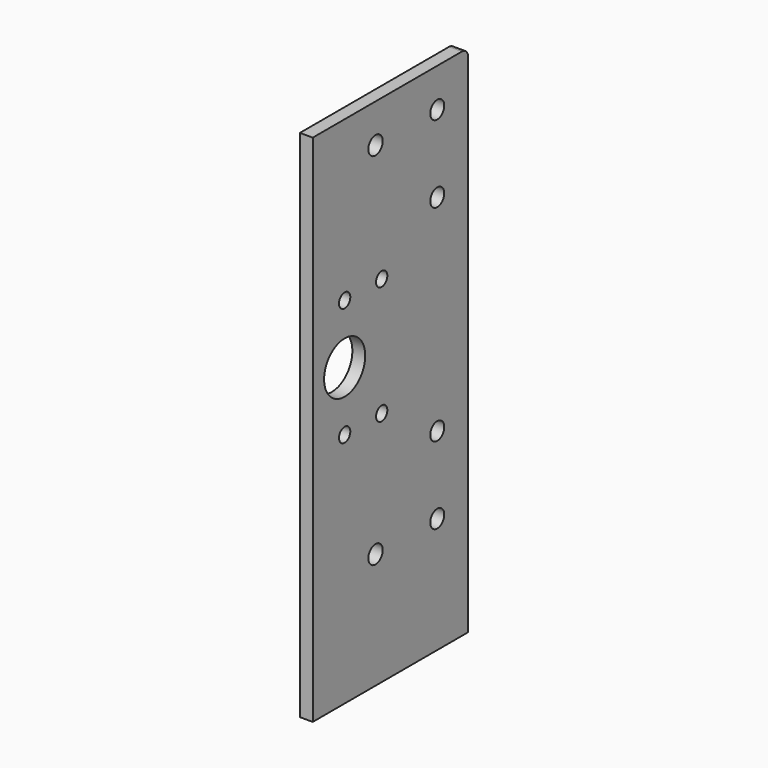
from build123d import *

# Parameters (mm, degrees)
F0_W     = 75.5
F0_H     = 200
F1_DEPTH = 2.5
F2_R     = 3.4
F2_R_2   = 3.5
F2_R_3   = 10
F2_R_4   = 2.75
F3_DEPTH = 5
F4_R     = 3


with BuildPart() as f1:
    # F0 (on Right) → F1 (new body, symmetric)
    with BuildSketch(Plane.YZ):
        Rectangle(F0_W, F0_H)
    extrude(amount=F1_DEPTH, both=True)

    # F2 (on face) → F3 (cut)
    with BuildSketch(Plane.YZ.offset(2.5)):
        with Locations((22.75, 85)):
            Circle(F2_R)
        with Locations((22.75, 55)):
            Circle(F2_R)
        with Locations((22.75, -55)):
            Circle(F2_R)
        with Locations((22.75, -25)):
            Circle(F2_R)
        with Locations((-7.25, 85)):
            Circle(F2_R_2)
        with Locations((-7.25, -55)):
            Circle(F2_R_2)
        with Locations((-22.25, 15)):
            Circle(F2_R_3)
        with Locations((-22.25, 38)):
            Circle(F2_R_4)
        with Locations((-4.25, 38)):
            Circle(F2_R_4)
        with Locations((-22.25, -8)):
            Circle(F2_R_4)
        with Locations((-4.25, -8)):
            Circle(F2_R_4)
    extrude(amount=-F3_DEPTH, mode=Mode.SUBTRACT)

    # F4
    f4_edges = [f1.edges().sort_by_distance(p)[0] for p in [
        (0, 37.75, 100),
    ]]
    fillet(f4_edges, radius=F4_R)


solid = f1.part
